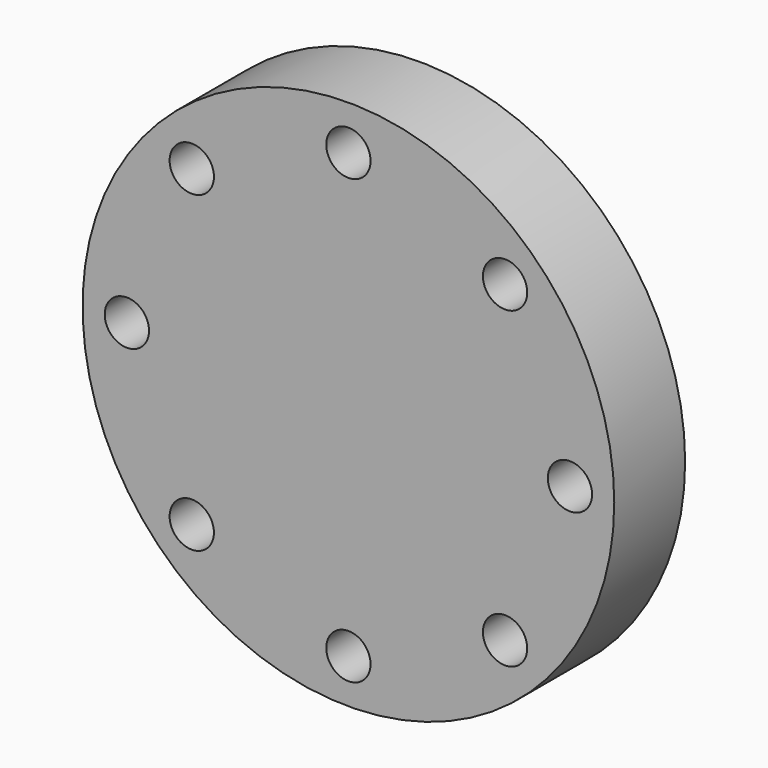
from build123d import *

# Parameters (mm, degrees)
F0_R     = 60
F0_R_2   = 5
F1_DEPTH = 20


with BuildPart() as f1:
    # F0 (on Front) → F1 (new body)
    with BuildSketch(Plane.XZ):
        Circle(F0_R)
        with Locations((-35.355339, -35.355339)):
            Circle(F0_R_2, mode=Mode.SUBTRACT)
        with Locations((0, -50)):
            Circle(F0_R_2, mode=Mode.SUBTRACT)
        with Locations((35.355339, -35.355339)):
            Circle(F0_R_2, mode=Mode.SUBTRACT)
        with Locations((-50, 0)):
            Circle(F0_R_2, mode=Mode.SUBTRACT)
        with Locations((-35.355339, 35.355339)):
            Circle(F0_R_2, mode=Mode.SUBTRACT)
        with Locations((50, 0)):
            Circle(F0_R_2, mode=Mode.SUBTRACT)
        with Locations((0, 50)):
            Circle(F0_R_2, mode=Mode.SUBTRACT)
        with Locations((35.355339, 35.355339)):
            Circle(F0_R_2, mode=Mode.SUBTRACT)
    extrude(amount=F1_DEPTH)

    # F2 (on Top) → F3 (revolve)
    with BuildSketch(Plane.XY):
        with BuildLine():
            Line((-40, 0), (0, 0))
            Line((0, 0), (0, 40))
            ThreePointArc((0, 40), (-28.284271, 28.284271), (-40, 0))
        make_face()
    revolve(axis=Axis((0, 20, 0), (0, 1, 0)))


solid = f1.part
